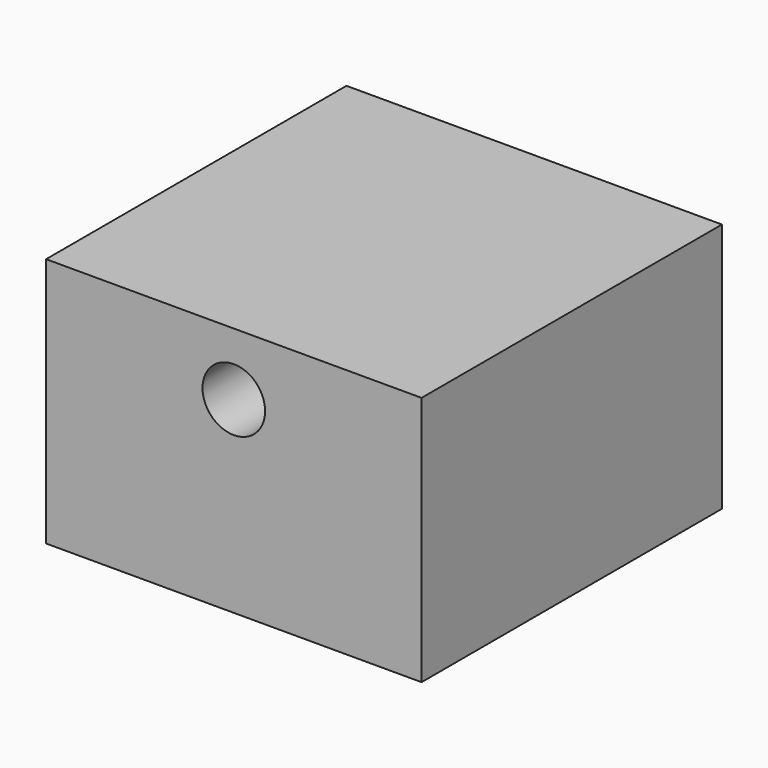
from build123d import *

# Parameters (mm, degrees)
F0_W     = 76.2
F0_H     = 76.2
F1_DEPTH = 25.4
F2_R     = 6.35
F3_DEPTH = 76.201


with BuildPart() as f1:
    # F0 (on Top) → F1 (new body, symmetric)
    with BuildSketch(Plane.XY):
        Rectangle(F0_W, F0_H)
    extrude(amount=F1_DEPTH, both=True)

    # F2 (on face) → F3 (cut, through all)
    with BuildSketch(Plane(origin=(0, 38.1, 0), x_dir=(-1, 0, 0), z_dir=(0, 1, 0))):
        with Locations((0, 12.7)):
            Circle(F2_R)
    extrude(amount=-F3_DEPTH, mode=Mode.SUBTRACT)


solid = f1.part
